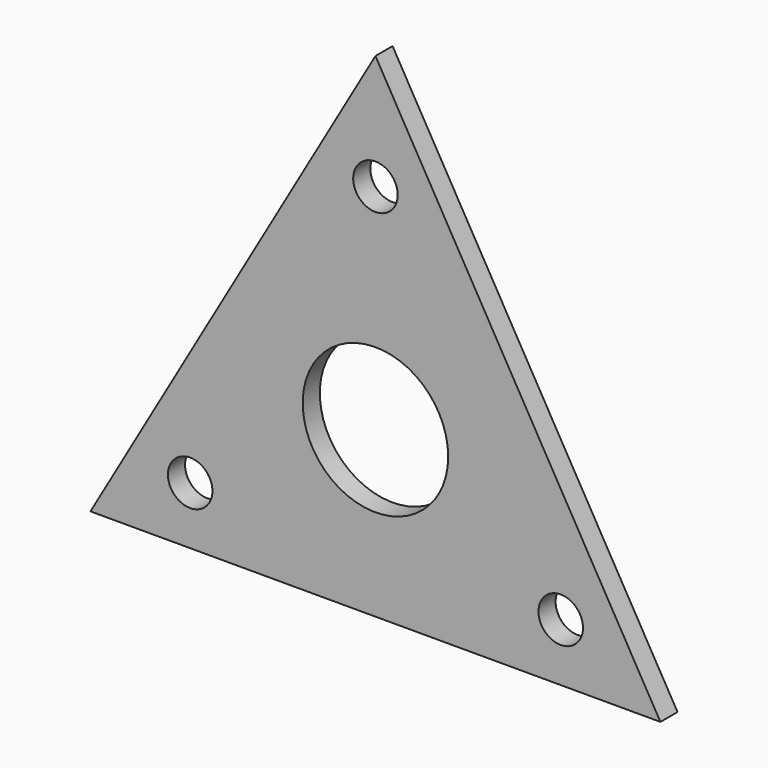
from build123d import *

# Parameters (mm, degrees)
F0_R     = 3.302
F0_R_2   = 10.795
F1_DEPTH = 3.175


with BuildPart() as f1:
    # F0 (on Front) → F1 (new body)
    with BuildSketch(Plane.XZ):
        Polygon((42.291, -24.41672), (0, 48.83344), (-42.291, -24.41672), align=None)
        with Locations((-27.496307, -15.875)):
            Circle(F0_R, mode=Mode.SUBTRACT)
        with Locations((27.496307, -15.875)):
            Circle(F0_R, mode=Mode.SUBTRACT)
        Circle(F0_R_2, mode=Mode.SUBTRACT)
        with Locations((0, 31.75)):
            Circle(F0_R, mode=Mode.SUBTRACT)
    extrude(amount=F1_DEPTH)


solid = f1.part
